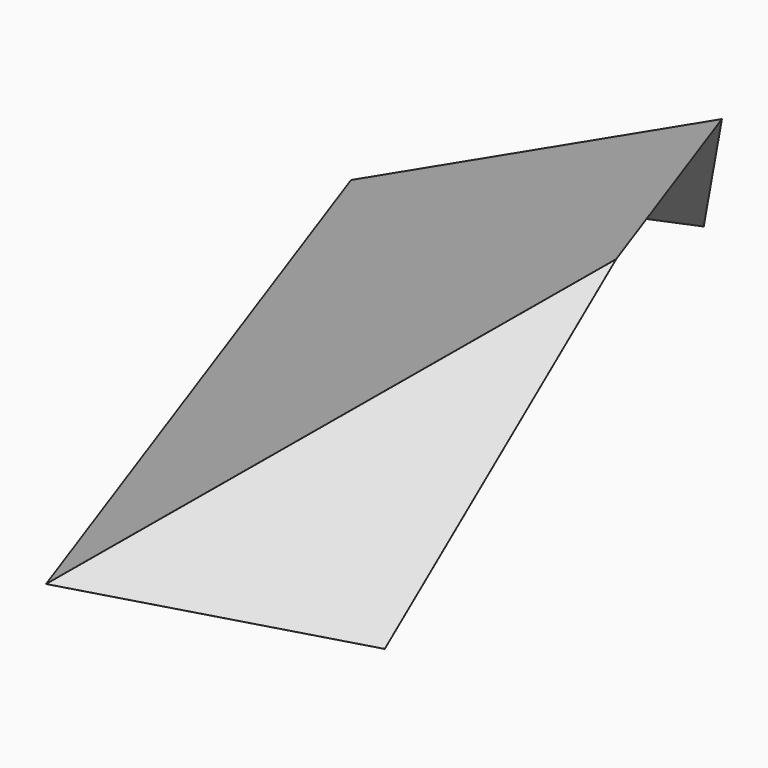
from build123d import *

# Parameters (mm, degrees)
F8_DEPTH = 0.254
F9_DEPTH = 0.254


with BuildPart() as f8:
    # F5 (on face) → F8 (new body)
    with BuildSketch(Plane(origin=(-390.4862371513, -137.8186719357, 681.2388166237), x_dir=(0.8718292882, -0.0971238544, 0.4800840022), z_dir=(-0.4898098532, -0.1728740658, 0.8545179138))):
        Polygon((98.2832743903, 681.717228434), (-1767.8269736298, 844.5588062927), (-759.3983340631, -1596.9821495181), (447.8930020446, -164.7348011162), align=None)
    extrude(amount=F8_DEPTH)


with BuildPart() as f9:
    # F7 (on 3pt) → F9 (new body)
    with BuildSketch(Plane(origin=(160.9600035135, -557.3603890985, 634.1523561522), x_dir=(0.9823073787, 0.1236328561, -0.1406667365), z_dir=(-0.1872757695, 0.6484846762, -0.73783156))):
        Polygon((-212.7846547286, 1005.9369401883), (-1235.3688632138, 1223.8273830865), (-163.8591005336, -312.6463933659), align=None)
    extrude(amount=F9_DEPTH)


with BuildPart() as f10_1:
    # F10: instance of F9
    add(f9.part.mirror(Plane(origin=(-44.8187072543, 126.9863372204, 0), x_dir=(0.9429903336, 0.3328201177, 0), z_dir=(0.3328201177, -0.9429903336, 0))))


solid = Compound([f8.part, f9.part, f10_1.part])
